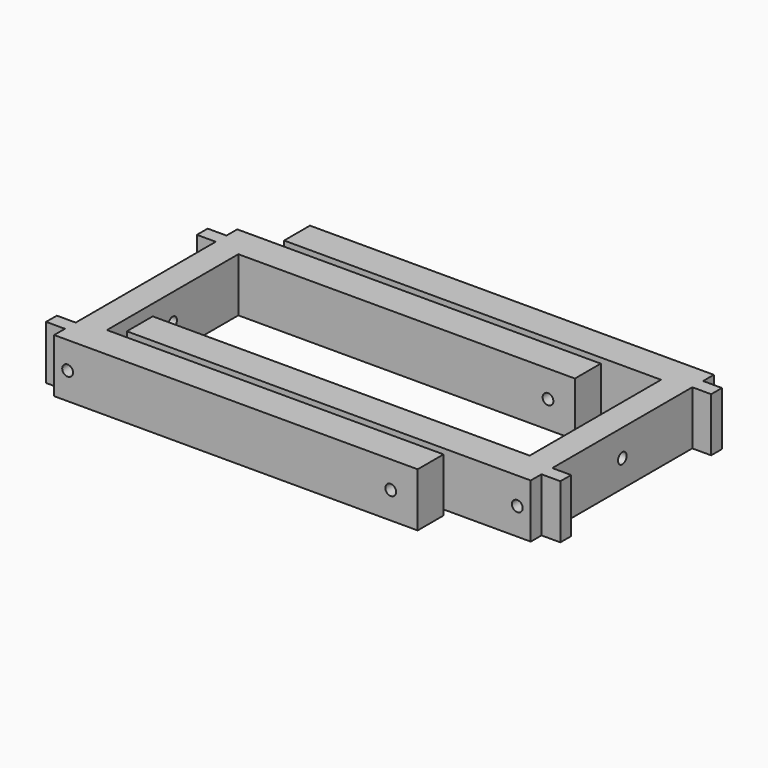
from build123d import *

# Parameters (mm, degrees)
PAD_DEPTH       = 20
SKETCH004_R     = 2
POCKET002_DEPTH = 135.001
SKETCH005_R     = 2
POCKET003_DEPTH = 85.001
PAD001_DEPTH    = 20
SKETCH007_R     = 2
POCKET004_DEPTH = 150.001
SKETCH008_R     = 2
POCKET005_DEPTH = 85.001


with BuildPart() as soporte_agujero_superior_lateral:
    # Sketch → Pad (new body)
    with BuildSketch(Plane.XY):
        Polygon((-10, -42.5), (125, -42.5), (125, -30.5), (0, -30.5), (0, 30.5), (125, 30.5), (125, 42.5), (-10, 42.5), (-10, 37.5), (-17, 37.5), (-17, 32.5), (-10, 32.5), (-10, -32.5), (-17, -32.5), (-17, -37.5), (-10, -37.5), align=None)
    extrude(amount=PAD_DEPTH)

    # Sketch004 → Pocket002 (cut, through all)
    with BuildSketch(Plane(origin=(-10, 0, 0), x_dir=(0, -1, 0), z_dir=(-1, 0, 0))):
        with Locations((0, 10)):
            Circle(SKETCH004_R)
    extrude(amount=-POCKET002_DEPTH, mode=Mode.SUBTRACT)

    # Sketch005 → Pocket003 (cut, through all)
    with BuildSketch(Plane.XZ.offset(42.5)):
        with Locations((-5, 10)):
            Circle(SKETCH005_R)
        with Locations((115, 10)):
            Circle(SKETCH005_R)
    extrude(amount=-POCKET003_DEPTH, mode=Mode.SUBTRACT)


with BuildPart() as soporte_agujero_superior_lateral001:
    # Sketch006 → Pad001 (new body)
    with BuildSketch(Plane(origin=(145, 15, 0), x_dir=(-1, 0, 0), z_dir=(0, 0, 1))):
        Polygon((-10, -42.5), (140, -42.5), (140, -30.5), (0, -30.5), (0, 30.5), (140, 30.5), (140, 42.5), (-10, 42.5), (-10, 37.5), (-17, 37.5), (-17, 32.5), (-10, 32.5), (-10, -32.5), (-17, -32.5), (-17, -37.5), (-10, -37.5), align=None)
    extrude(amount=PAD001_DEPTH)

    # Sketch007 → Pocket004 (cut, through all)
    with BuildSketch(Plane(origin=(155, 15, 0), x_dir=(0, 1, 0), z_dir=(1, 0, 0))):
        with Locations((0, 10)):
            Circle(SKETCH007_R)
    extrude(amount=-POCKET004_DEPTH, mode=Mode.SUBTRACT)

    # Sketch008 → Pocket005 (cut, through all)
    with BuildSketch(Plane(origin=(145, 57.5, 0), x_dir=(-1, 0, 0), z_dir=(0, 1, 0))):
        with Locations((-5, 10)):
            Circle(SKETCH008_R)
        with Locations((130, 10)):
            Circle(SKETCH008_R)
    extrude(amount=-POCKET005_DEPTH, mode=Mode.SUBTRACT)


solid = Compound([soporte_agujero_superior_lateral.part, soporte_agujero_superior_lateral001.part])
